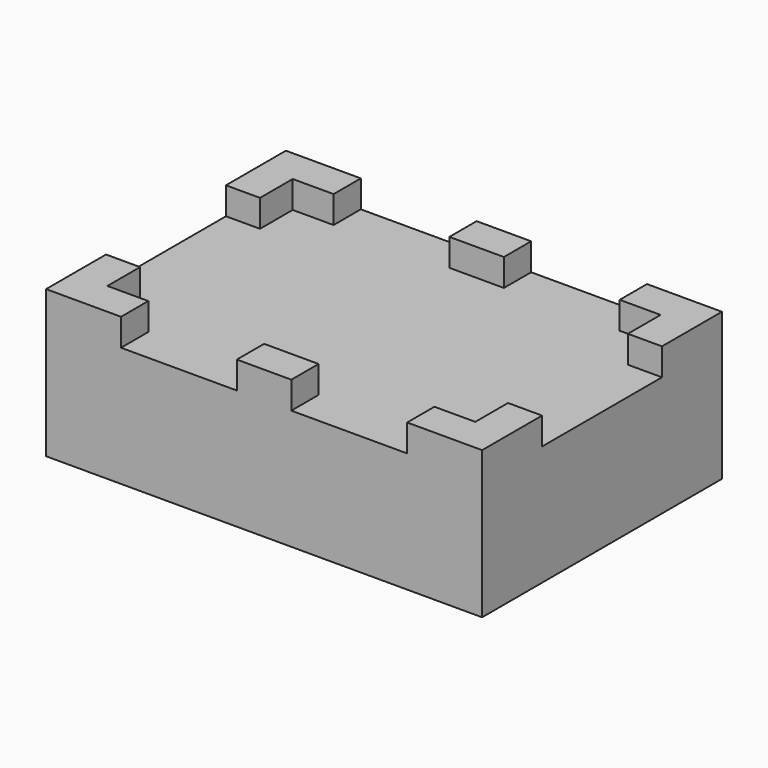
from build123d import *

# Parameters (mm, degrees)
F0_W      = 16
F0_H      = 11
F1_DEPTH  = 5
F2_W      = 2.5
F2_H      = 2.5
F2_W_2    = 3
F2_H_2    = 3
F2_W_3    = 2
F3_DEPTH  = 2
F5_FACE_W = 32
F5_FACE_H = 22
F6_DEPTH  = 3.8


with BuildPart() as f1:
    # F0 (on Top) → F1 (new body)
    with BuildSketch(Plane.XY):
        with Locations((-8, 5.5)):
            Rectangle(F0_W, F0_H)
    extrude(amount=F1_DEPTH)

    # F2 (on face) → F3 (join)
    with BuildSketch(Plane.XY.offset(5)):
        with Locations((-14.75, 9.75)):
            Rectangle(F2_W, F2_H)
        with Locations((-12, 9.75)):
            Rectangle(F2_W_2, F2_H)
        with Locations((-14.75, 7)):
            Rectangle(F2_W, F2_H_2)
        with Locations((-1, 9.75)):
            Rectangle(F2_W_3, F2_H)
    extrude(amount=F3_DEPTH)

    # F4: F1 across plane


with BuildPart() as f1_1:
    add(f1.part)
    add(f1.part.mirror(Plane.XZ))

    # F5: F1 across plane


with BuildPart() as f1_2:
    add(f1_1.part)
    add(f1_1.part.mirror(Plane.YZ))

    # F5_face (on face) → F6 (join)
    with BuildSketch(Plane(origin=(0, 0, 0), x_dir=(1, 0, 0), z_dir=(0, 0, -1))):
        Rectangle(F5_FACE_W, F5_FACE_H)
    extrude(amount=F6_DEPTH)


solid = f1_2.part
